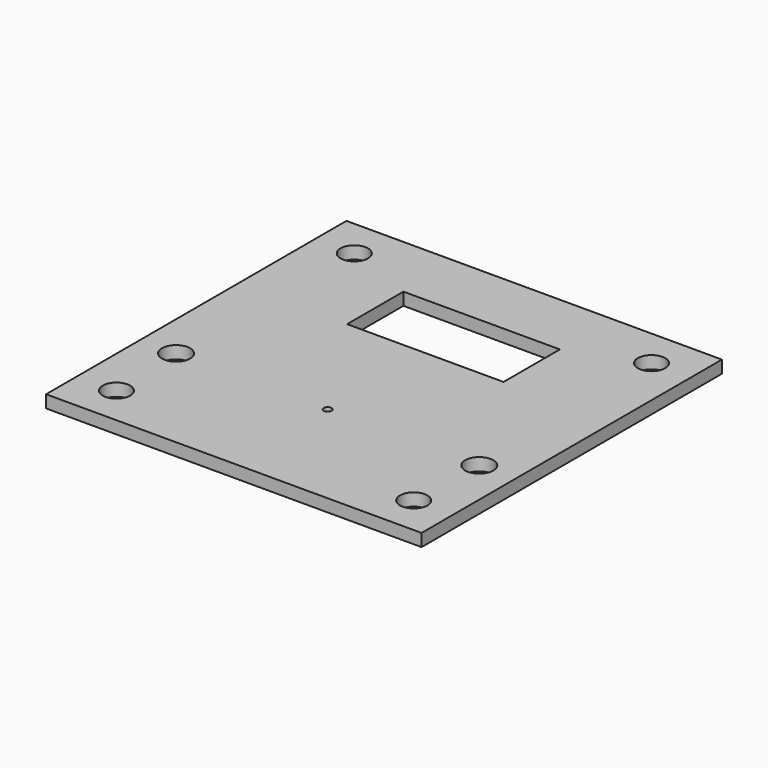
from build123d import *

# Parameters (mm, degrees)
F0_W     = 48
F0_H     = 1.6
F1_DEPTH = 48
F2_R     = 1.75
F2_R_2   = 1.8
F2_R_3   = 0.5
F3_DEPTH = 1.601
F4_W     = 20
F4_H     = 9
F5_DEPTH = 1.601
F6_W     = 48
F6_H     = 48
F6_R     = 1.75
F6_W_2   = 20
F6_H_2   = 9
F7_DEPTH = 5


with BuildPart() as f1:
    # F0 (on Right) → F1 (new body)
    with BuildSketch(Plane.YZ):
        Rectangle(F0_W, F0_H)
    extrude(amount=-F1_DEPTH)

    # F2 (on face) → F3 (cut, through all)
    with BuildSketch(Plane.XY.offset(0.8)):
        with Locations((-43, -19)):
            Circle(F2_R)
        with Locations((-43, 19)):
            Circle(F2_R)
        with Locations((-43.38, -9)):
            Circle(F2_R_2)
        with Locations((-4.62, -9)):
            Circle(F2_R_2)
        with Locations((-5, 19)):
            Circle(F2_R)
        with Locations((-5, -19)):
            Circle(F2_R)
        with Locations((-24, -9)):
            Circle(F2_R_3)
    extrude(amount=-F3_DEPTH, mode=Mode.SUBTRACT)

    # F4 (on face) → F5 (cut, through all)
    with BuildSketch(Plane.XY.offset(0.8)):
        with Locations((-24, 11.104)):
            Rectangle(F4_W, F4_H)
    extrude(amount=-F5_DEPTH, mode=Mode.SUBTRACT)


with BuildPart() as f7:
    # F6 (on Top) → F7 (new body)
    with BuildSketch(Plane.XY):
        Rectangle(F6_W, F6_H)
        with Locations((-19, -19)):
            Circle(F6_R, mode=Mode.SUBTRACT)
        with Locations((19, -19)):
            Circle(F6_R, mode=Mode.SUBTRACT)
        with Locations((-19, 19)):
            Circle(F6_R, mode=Mode.SUBTRACT)
        with Locations((0, 14.5)):
            Rectangle(F6_W_2, F6_H_2, mode=Mode.SUBTRACT)
        with Locations((19, 19)):
            Circle(F6_R, mode=Mode.SUBTRACT)
    extrude(amount=F7_DEPTH)


solid = f1.part
